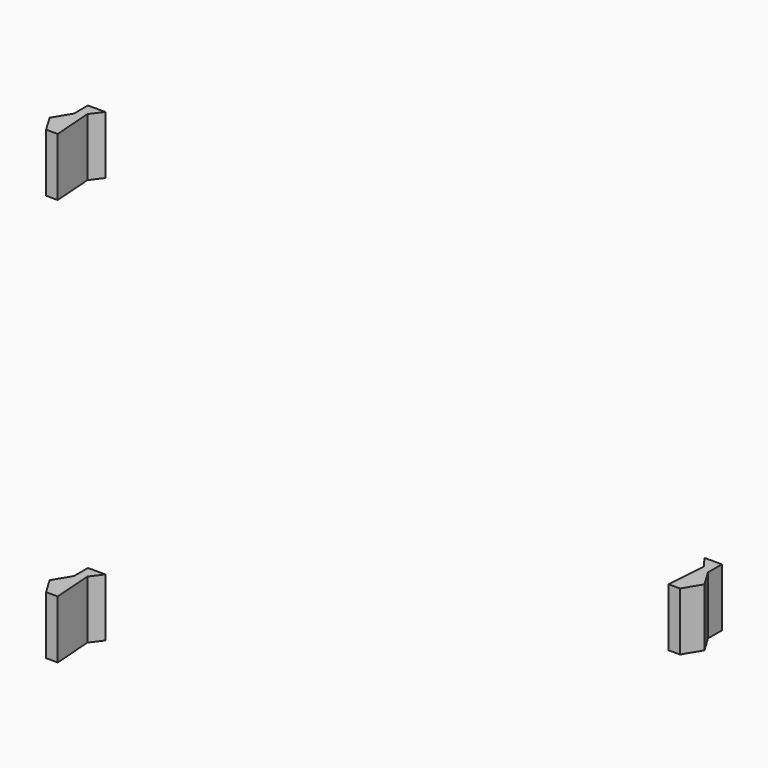
from build123d import *

# Parameters (mm, degrees)
PAD005_DEPTH = 10
PAD004_DEPTH = 10
PAD006_DEPTH = 10


with BuildPart() as snap2:
    # Sketch005 → Pad005 (new body)
    with BuildSketch(Plane.XY.offset(84)):
        Polygon((0, 9), (0, 6), (-1.8, 3), (0, 0), (2, 0), (1.5, 7), (3, 9), align=None)
    extrude(amount=PAD005_DEPTH)


with BuildPart() as fusion006:
    # Sketch004 → Pad004 (new body)
    with BuildSketch(Plane.XY.offset(14)):
        Polygon((0, 9), (0, 6), (-1.8, 3), (0, 0), (2, 0), (1.5, 7), (3, 9), align=None)
    extrude(amount=PAD004_DEPTH)

    # Fusion006: union Snap2
    add(snap2.part)


with BuildPart() as snaps:
    # Sketch006 → Pad006 (new body)
    with BuildSketch(Plane(origin=(-2, 0, 50), x_dir=(1, 0, 0), z_dir=(0, 0, 1))):
        Polygon((111, 0), (112.8, 3), (111, 6), (111, 9), (108, 9), (109.5, 7), (109, 0), align=None)
    extrude(amount=PAD006_DEPTH)

    # Fusion007: union Fusion006
    add(fusion006.part)


solid = snaps.part
